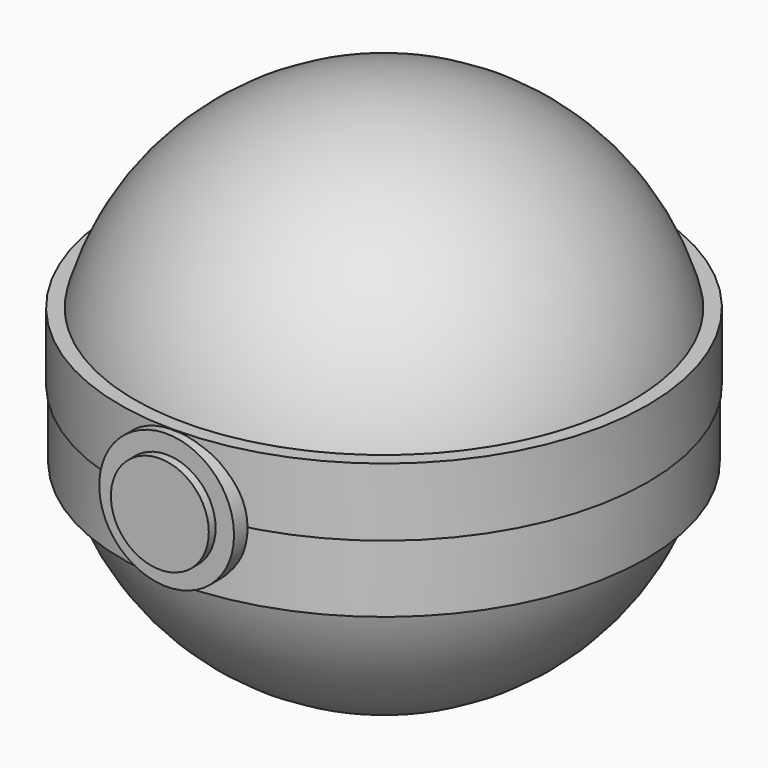
from build123d import *

# Parameters (mm, degrees)
F3_R      = 7.323363
F4_DEPTH  = 3.81
F5_R      = 10.080192
F6_DEPTH  = 2.54
F7_R      = 39.471742
F8_DEPTH  = 10.16
F9_R      = 39.232007
F10_DEPTH = 10.16


with BuildPart() as f1:
    # F0 (on Front) → F1 (revolve)
    with BuildSketch(Plane.XZ):
        with BuildLine():
            Line((0, 38.767733), (0, -38.584433))
            ThreePointArc((0, -38.584433), (38.676083, 0.09165), (0, 38.767733))
        make_face()
    revolve(axis=Axis((0, 0, 0.09165), (0, 0, -1)))


with BuildPart() as f4:
    # F3 (on offset) → F4 (new body)
    with BuildSketch(Plane.XZ.offset(38.1)):
        Circle(F3_R)
    extrude(amount=F4_DEPTH)


with BuildPart() as f6:
    # F5 (on offset) → F6 (new body)
    with BuildSketch(Plane.XZ.offset(38.1)):
        Circle(F5_R)
    extrude(amount=F6_DEPTH)


with BuildPart() as f8:
    # F7 (on Top) → F8 (new body)
    with BuildSketch(Plane.XY):
        Circle(F7_R)
    extrude(amount=F8_DEPTH)


with BuildPart() as f10:
    # F9 (on Top) → F10 (new body)
    with BuildSketch(Plane.XY):
        Circle(F9_R)
    extrude(amount=-F10_DEPTH)


solid = Compound([f1.part, f4.part, f6.part, f8.part, f10.part])
